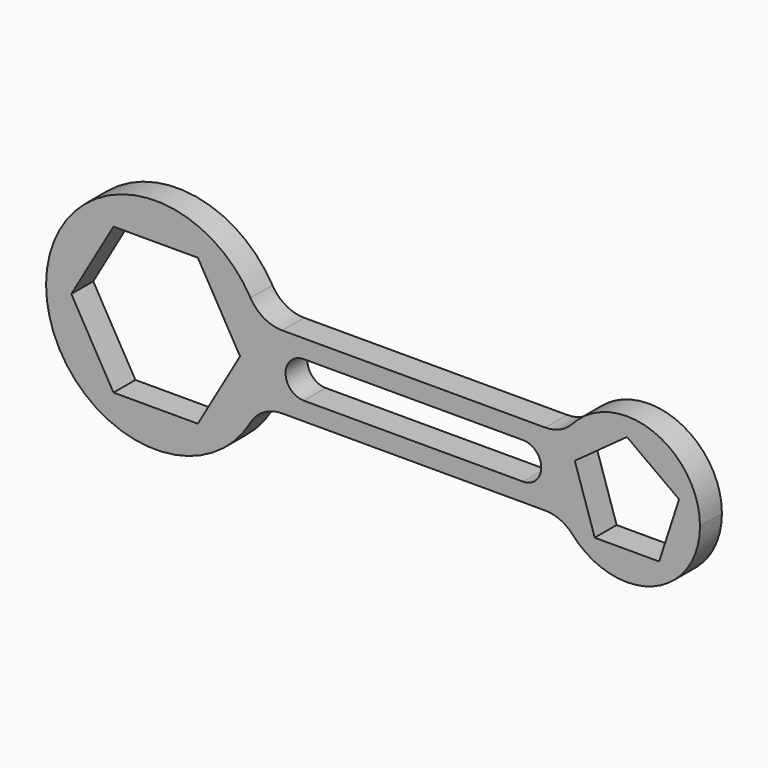
from build123d import *

# Parameters (mm, degrees)
F1_DEPTH = 7.5
F3_DEPTH = 25
F5_DEPTH = 25
F6_W     = 60
F6_H     = 10
F7_DEPTH = 25
F8_R     = 10


with BuildPart() as f1:
    # F0 (on Front) → F1 (new body)
    with BuildSketch(Plane.XZ):
        with BuildLine():
            Line((-64.5, -10), (-64.5, 10))
            Line((-64.5, 10), (-36.2157287525, 10))
            ThreePointArc((-36.2157287525, 10), (-94.5, 0), (-36.2157287525, -10))
            Line((-36.2157287525, -10), (-64.5, -10))
        make_face()
        with BuildLine():
            Line((-36.2157287525, 10), (-64.5, 10))
            Line((-64.5, 10), (-64.5, -10))
            Line((-64.5, -10), (-36.2157287525, -10))
            ThreePointArc((-36.2157287525, -10), (-34.9320432104, -5.0730593618), (-34.5, 0))
            ThreePointArc((-34.5, 0), (-34.9320432104, 5.0730593618), (-36.2157287525, 10))
        make_face()
        with BuildLine():
            Line((47.1794919243, 10), (-36.2157287525, 10))
            ThreePointArc((-36.2157287525, 10), (-34.9320432104, 5.0730593618), (-34.5, 0))
            ThreePointArc((-34.5, 0), (-34.9320432104, -5.0730593618), (-36.2157287525, -10))
            Line((-36.2157287525, -10), (47.1794919243, -10))
            ThreePointArc((47.1794919243, -10), (44.5, 0), (47.1794919243, 10))
        make_face()
        with BuildLine():
            ThreePointArc((84.5, 0), (69.6763809021, 19.3185165258), (47.1794919243, 10))
            Line((47.1794919243, 10), (64.5, 10))
            Line((64.5, 10), (64.5, -10))
            Line((64.5, -10), (47.1794919243, -10))
            ThreePointArc((47.1794919243, -10), (69.6763809021, -19.3185165258), (84.5, 0))
        make_face()
        with BuildLine():
            Line((64.5, 10), (47.1794919243, 10))
            ThreePointArc((47.1794919243, 10), (44.5, 0), (47.1794919243, -10))
            Line((47.1794919243, -10), (64.5, -10))
            Line((64.5, -10), (64.5, 10))
        make_face()
    extrude(amount=F1_DEPTH)

    # F2 (on face) → F3 (cut)
    with BuildSketch(Plane.XZ.offset(7.5)):
        Polygon((-52.9529946162, 20), (-76.0470053838, 20), (-87.5940107676, 0), (-76.0470053838, -20), (-52.9529946162, -20), (-41.4059892324, 0), align=None)
    extrude(amount=-F3_DEPTH, mode=Mode.SUBTRACT)

    # F4 (on face) → F5 (cut)
    with BuildSketch(Plane.XZ.offset(7.5)):
        Polygon((73.3167787844, -12.1352549156), (78.7658477444, 4.6352549156), (64.5, 15), (50.2341522556, 4.6352549156), (55.6832212156, -12.1352549156), align=None)
    extrude(amount=-F5_DEPTH, mode=Mode.SUBTRACT)

    # F6 (on face) → F7 (cut)
    with BuildSketch(Plane.XZ.offset(7.5)):
        with Locations((6.0453672857, 0)):
            Rectangle(F6_W, F6_H)
        with BuildLine():
            ThreePointArc((-23.9546327143, 5), (-28.9546327143, 0), (-23.9546327143, -5))
            Line((-23.9546327143, -5), (-23.9546327143, 5))
        make_face()
        with BuildLine():
            Line((36.0453672857, 5), (36.0453672857, -5))
            ThreePointArc((36.0453672857, -5), (41.0453672857, 0), (36.0453672857, 5))
        make_face()
    extrude(amount=-F7_DEPTH, mode=Mode.SUBTRACT)

    # F8
    f8_edges = [f1.edges().sort_by_distance(p)[0] for p in [
        (-36.215729, -3.75, -10),
        (47.179492, -3.75, 10),
        (47.179492, -3.75, -10),
        (-36.215729, -3.75, 10),
    ]]
    fillet(f8_edges, radius=F8_R)


solid = f1.part
